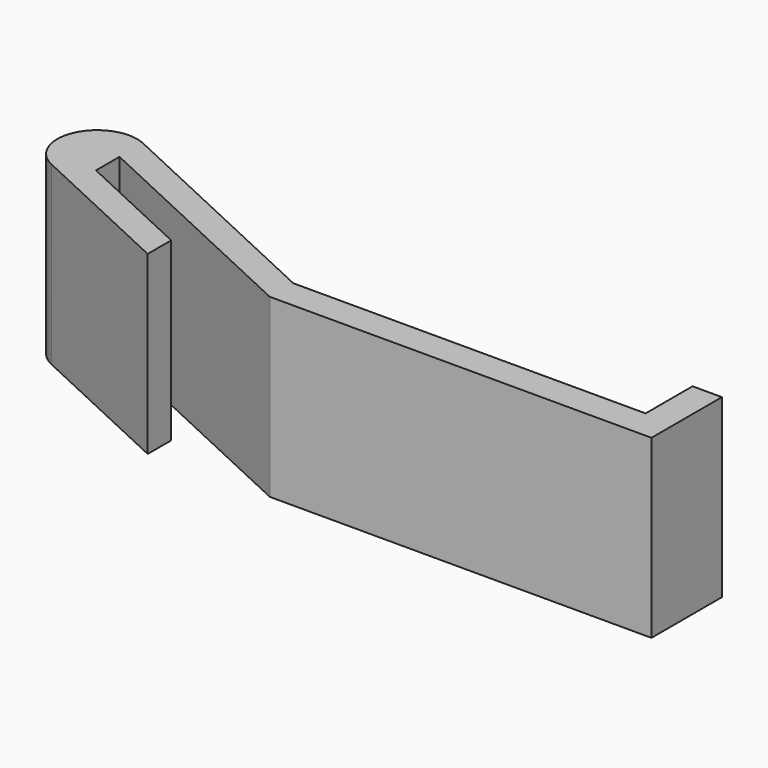
from build123d import *

# Parameters (mm, degrees)
F1_DEPTH = 30


with BuildPart() as f1:
    # F0 (on Top) → F1 (new body)
    with BuildSketch(Plane.XY):
        with BuildLine():
            Line((-40.8, 19), (0, 0))
            Line((0, 0), (65, 0))
            Line((65, 0), (65, 15))
            Line((65, 15), (60, 15))
            Line((60, 15), (60, 5))
            Line((60, 5), (0, 5))
            Line((0, 5), (-40.8, 24))
            ThreePointArc((-40.8, 24), (-49.833589, 20.706819), (-46.540408, 11.673229))
            Line((-46.540408, 11.673229), (-20.4, -0.5))
            Line((-20.4, -0.5), (-20.4, 4.5))
            Line((-20.4, 4.5), (-40.8, 14))
            Line((-40.8, 14), (-40.8, 19))
        make_face()
    extrude(amount=F1_DEPTH)


solid = f1.part
